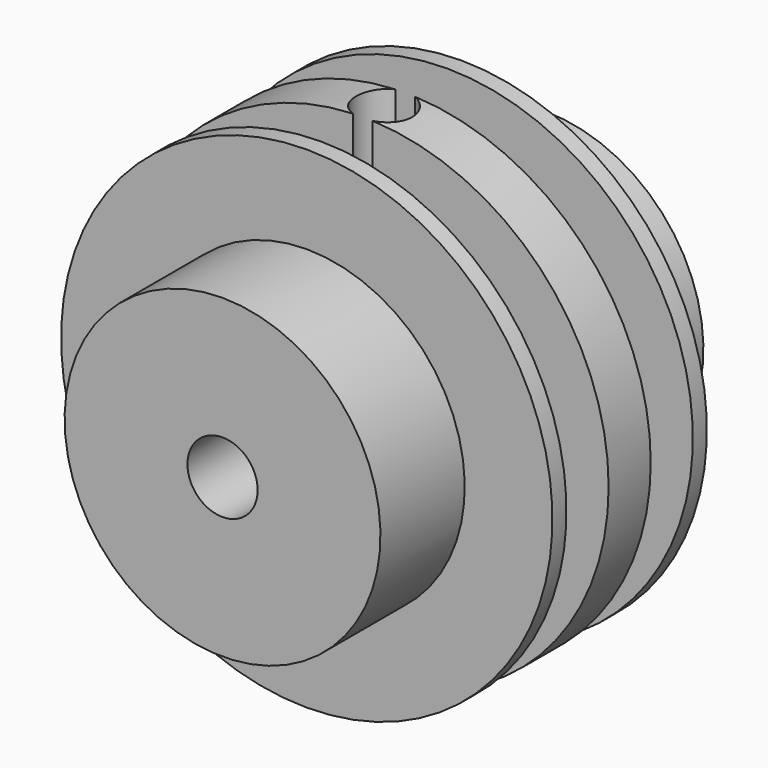
from build123d import *

# Parameters (mm, degrees)
F0_W          = 3
F0_H          = 4.5
F2_R          = 0.8
F3_DEPTH      = 25
F4_DEPTH      = 25
F4_DEPTH_BACK = 25
F5_R          = 1
F6_DEPTH      = 25


with BuildPart() as f1:
    # F0 (on Right) → F1 (revolve)
    with BuildSketch(Plane.YZ):
        Polygon((0, 4.5), (0, 0), (5.5, 0), (5.5, 4.5), (5.5, 7), (5, 7), (5, 4), (3.5, 4), (3.5, 7), (2, 7), (2, 4), (0.5, 4), (0.5, 7), (0, 7), align=None)
        with Locations((7, 2.25)):
            Rectangle(F0_W, F0_H)
        with Locations((-1.5, 2.25)):
            Rectangle(F0_W, F0_H)
    revolve(axis=Axis((0, 2.7052562218, 0), (0, 1, 0)))

    # F2 (on Top) → F3 (cut)
    with BuildSketch(Plane.XY):
        with Locations((0, 2.75)):
            Circle(F2_R)
    extrude(amount=-F3_DEPTH, mode=Mode.SUBTRACT)

    # F2 (on Top) → F4 (cut, two sides)
    with BuildSketch(Plane.XY) as f4_sk:
        with Locations((0, 2.75)):
            Circle(F2_R)
    extrude(amount=-F4_DEPTH, mode=Mode.SUBTRACT)
    extrude(f4_sk.sketch, amount=F4_DEPTH_BACK, mode=Mode.SUBTRACT)

    # F5 (on face) → F6 (cut)
    with BuildSketch(Plane.XZ.offset(3)):
        Circle(F5_R)
    extrude(amount=-F6_DEPTH, mode=Mode.SUBTRACT)


solid = f1.part
